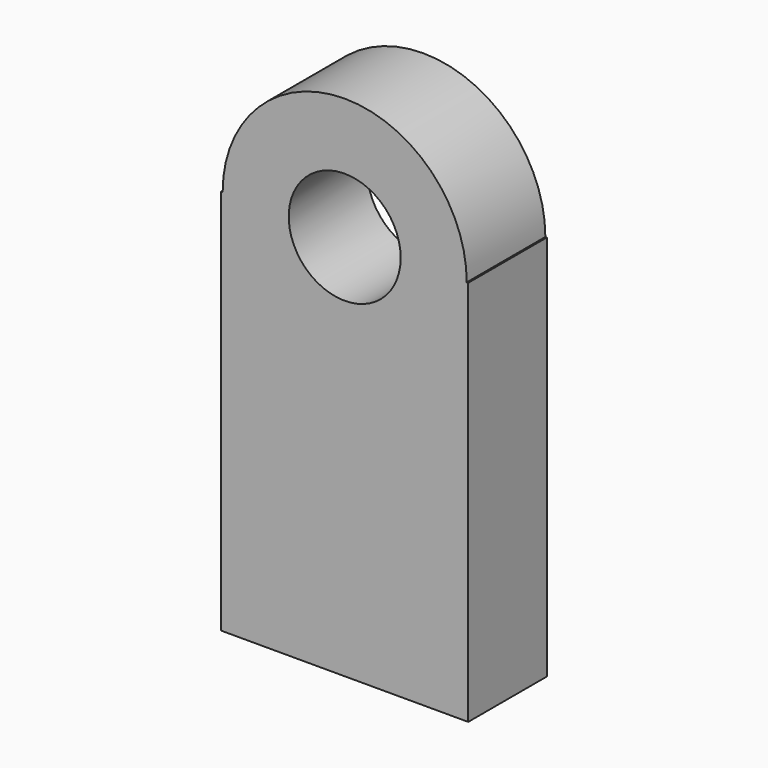
from build123d import *

# Parameters (mm, degrees)
F1_DEPTH = 31.75


with BuildPart() as f1:
    # F0 (on Front) → F1 (new body)
    with BuildSketch(Plane.XZ):
        with BuildLine():
            Line((-39.437188, 62.446829), (-39.916299, 62.446829))
            Line((-39.916299, 62.446829), (-39.916299, -62.446829))
            Line((-39.916299, -62.446829), (39.916299, -62.446829))
            Line((39.916299, -62.446829), (39.916299, 62.446829))
            Line((39.916299, 62.446829), (39.437188, 62.446829))
            ThreePointArc((39.437188, 62.446829), (0, 101.884017), (-39.437188, 62.446829))
        make_face()
        with BuildLine():
            ThreePointArc((-18.085412, 62.446829), (0, 80.532241), (18.085412, 62.446829))
            ThreePointArc((18.085412, 62.446829), (0, 44.361417), (-18.085412, 62.446829))
        make_face(mode=Mode.SUBTRACT)
    extrude(amount=F1_DEPTH)


solid = f1.part
